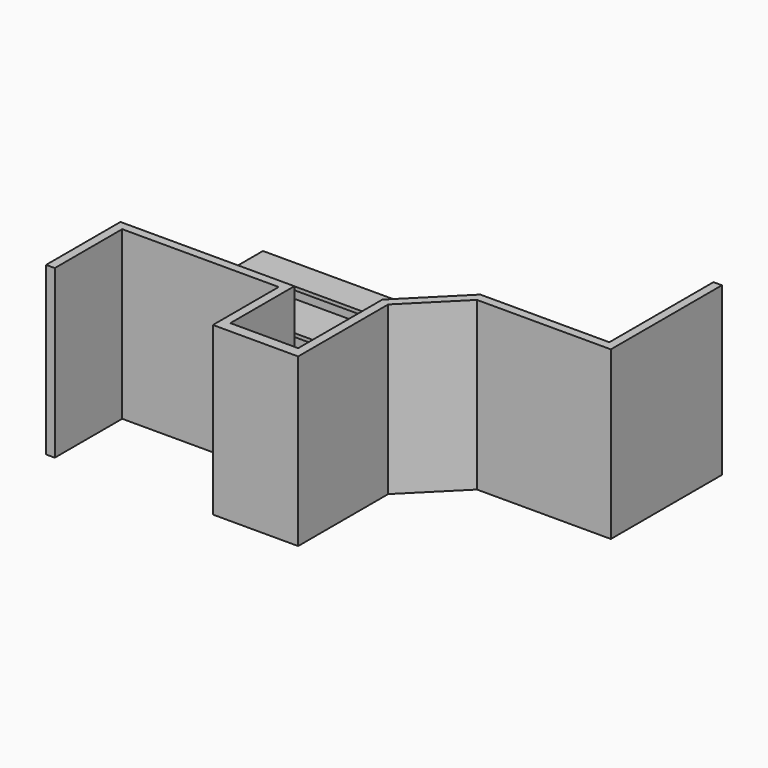
from build123d import *

# Parameters (mm, degrees)
F1_DEPTH = 863.6
F0_W     = 2057.4
F0_H     = 304.8
F2_DEPTH = 2438.4
F3_DEPTH = 1041.4
F5_DEPTH = 50.8
F6_W     = 2108.2
F6_H     = 330.2
F7_DEPTH = 50.8
F8_R     = 25.4
F9_R     = 12.7


with BuildPart() as f1:
    # F0 (on Top) → F1 (new body)
    with BuildSketch(Plane.XY):
        Polygon((1296.9782733917, 1433.0991125107), (2324.6778296471, 405.3995562553), (2755.7301234584, 836.4518500667), (1549.4828610144, 2042.6991125107), (-1141.4217266083, 2042.6991125107), (-1141.4217266083, 1433.0991125107), align=None)
    extrude(amount=F1_DEPTH)


with BuildPart() as f1b:
    # F0 (on Top) → F1, piece 2 (new body)
    with BuildSketch(Plane.XY):
        with Locations((-87.3217266083, 152.4)):
            Rectangle(F0_W, F0_H)
    extrude(amount=F1_DEPTH)


with BuildPart() as f2:
    # F0 (on Top) → F2 (new body)
    with BuildSketch(Plane.XY):
        Polygon((-1116.0217266083, 0), (-1243.0217266083, 0), (-1243.0217266083, -1357.8029119428), (-1116.0217266083, -1357.8029119428), (-1116.0217266083, -127), (1169.9782733917, -127), (1169.9782733917, -1328.09007782), (2414.5782733917, -1328.09007782), (2414.5782733917, 315.6948775786), (3134.9360625277, 1036.0526667146), (5090.587792672, 1036.0526667146), (5090.587792672, 3063.8273026744), (4967.0795944628, 3063.8273026744), (4967.0795944628, 1163.0526667146), (3082.3309401063, 1163.0526667146), (3061.0588315747, 1141.780558183), (2845.5326846691, 926.2544112774), (2755.7301234584, 836.4518500667), (2324.6778296471, 405.3995562553), (2287.5782733917, 368.3), (2287.5782733917, -1168.4), (1296.9782733917, -1168.4), (1296.9782733917, 0), (941.3782733917, 0), align=None)
    extrude(amount=F2_DEPTH)


with BuildPart() as f3:
    # F0 (on Top) → F3 (new body)
    with BuildSketch(Plane.XY):
        Polygon((1549.4828610144, 2042.6991125107), (2755.7301234584, 836.4518500667), (2845.5326846691, 926.2544112774), (1602.0879834357, 2169.6991125107), (-1141.4217266083, 2169.6991125107), (-1141.4217266083, 2042.6991125107), align=None)
    extrude(amount=F3_DEPTH)


with BuildPart() as f5:
    # F4 (on face) → F5 (new body)
    with BuildSketch(Plane.XY.offset(1041.4)):
        Polygon((1538.9618365301, 2017.2991125107), (2737.7696112162, 818.4913378245), (3061.0588315747, 1141.780558183), (1728.3402772471, 2474.4991125107), (-1141.4217266083, 2474.4991125107), (-1141.4217266083, 2017.2991125107), align=None)
    extrude(amount=F5_DEPTH)


with BuildPart() as f7:
    # F6 (on face) → F7 (new body)
    with BuildSketch(Plane.XY.offset(863.6)):
        with Locations((-87.3217266083, 165.1)):
            Rectangle(F6_W, F6_H)
    extrude(amount=F7_DEPTH)

    # F8
    f8_edges = [f7.edges().sort_by_distance(p)[0] for p in [
        (-1141.421727, 330.2, 889),
        (966.778273, 330.2, 889),
    ]]
    fillet(f8_edges, radius=F8_R)

    # F9
    f9_edges = [f7.edges().sort_by_distance(p)[0] for p in [
        (966.778273, 152.4, 914.4),
        (-87.321727, 330.2, 914.4),
    ]]
    fillet(f9_edges, radius=F9_R)


with BuildPart() as f7b:
    # F6 (on face) → F7, piece 2 (new body)
    with BuildSketch(Plane.XY.offset(863.6)):
        Polygon((2324.6778296471, 405.3995562553), (2755.7301234584, 836.4518500667), (1549.4828610144, 2042.6991125107), (-1141.4217266083, 2042.6991125107), (-1141.4217266083, 1433.0991125107), (1296.9782733917, 1433.0991125107), align=None)
        Polygon((2288.7568051628, 369.4785317711), (2324.6778296471, 405.3995562553), (1296.9782733917, 1433.0991125107), (-1141.4217266083, 1433.0991125107), (-1141.4217266083, 1382.2991125107), (1275.9362244232, 1382.2991125107), align=None)
    extrude(amount=F7_DEPTH)


solid = Compound([f1.part, f1b.part, f2.part, f3.part, f5.part, f7.part, f7b.part])
